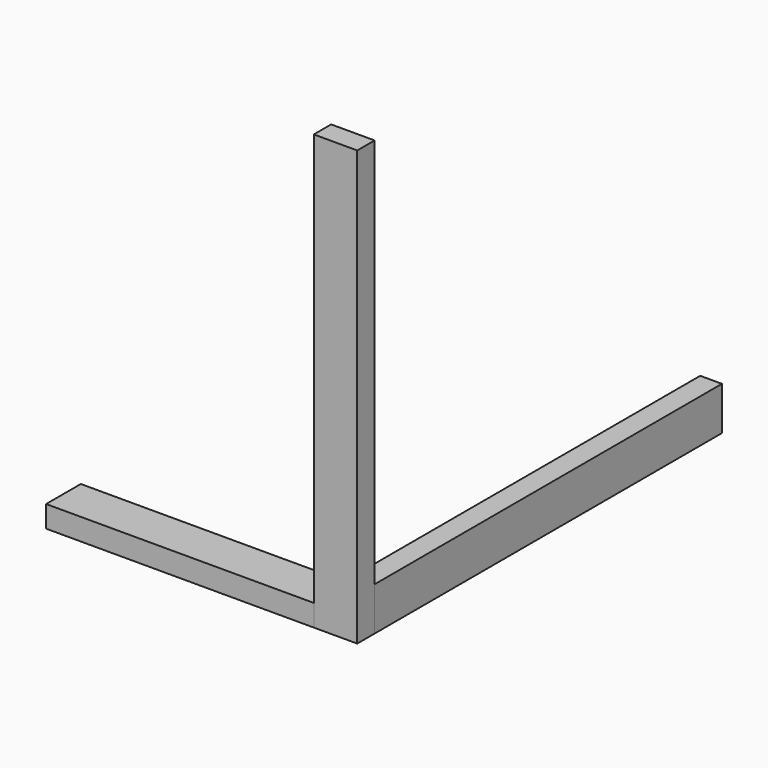
from build123d import *

# Parameters (mm, degrees)
F0_W     = 45
F0_H     = 900
F1_DEPTH = 90
F2_W     = 90
F2_H     = 45
F3_DEPTH = 900
F5_DEPTH = 45


with BuildPart() as f1:
    # F0 (on Top) → F1 (new body)
    with BuildSketch(Plane.XY):
        with Locations((22.5, 450)):
            Rectangle(F0_W, F0_H)
    extrude(amount=F1_DEPTH)


with BuildPart() as f3:
    # F2 (on Top) → F3 (new body)
    with BuildSketch(Plane.XY):
        with Locations((0, -22.5)):
            Rectangle(F2_W, F2_H)
    extrude(amount=F3_DEPTH)


with BuildPart() as f5:
    # F4 (on Top) → F5 (new body)
    with BuildSketch(Plane.XY):
        Polygon((0, 0), (0, 45), (-600, 45), (-600, -45), (-45, -45), (-45, 0), align=None)
    extrude(amount=F5_DEPTH)


solid = Compound([f1.part, f3.part, f5.part])
